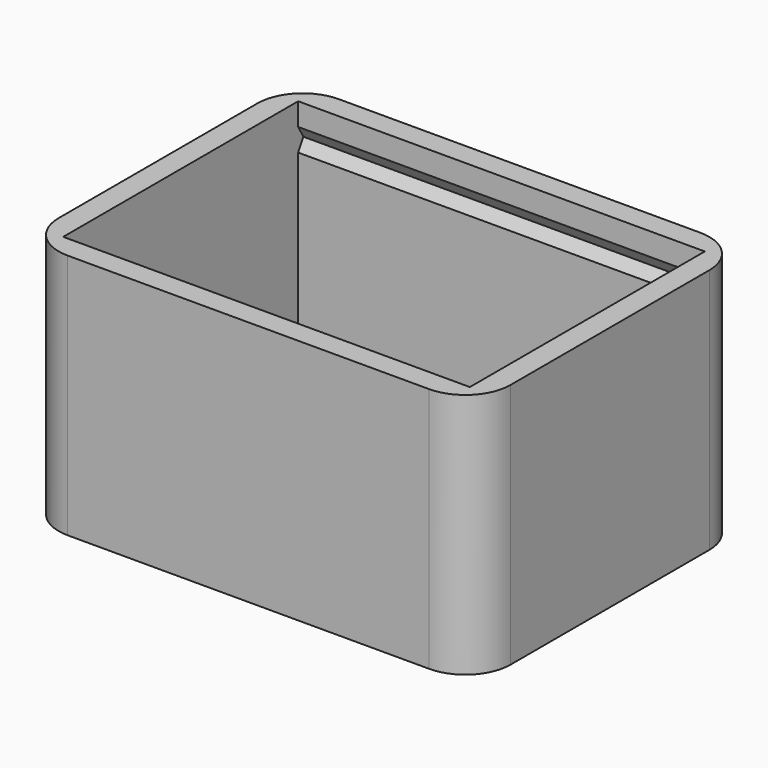
from build123d import *

# Parameters (mm, degrees)
F0_W          = 50.8
F0_H          = 38.1
F1_DEPTH      = 2.286
F2_W          = 50.8
F2_H          = 38.1
F2_W_2        = 45.72
F2_H_2        = 33.02
F3_DEPTH      = 25.4
F6_DEPTH      = 12.7
F6_DEPTH_BACK = 33.02
F8_D          = 3.3
F10_D         = 6.7564
F10_DEPTH     = 38.1
F10_TIP       = 2.0298273432
F11_R         = 5.08


with BuildPart() as f1:
    # F0 (on Top) → F1 (new body)
    with BuildSketch(Plane.XY):
        with Locations((25.4, 19.05)):
            Rectangle(F0_W, F0_H)
    extrude(amount=F1_DEPTH)

    # F2 (on face) → F3 (join)
    with BuildSketch(Plane.XY.offset(2.286)):
        with Locations((25.4, 19.05)):
            Rectangle(F2_W, F2_H)
        with Locations((25.4, 19.05)):
            Rectangle(F2_W_2, F2_H_2, mode=Mode.SUBTRACT)
    extrude(amount=F3_DEPTH)

    # F5 (on offset) → F6 (cut, two sides)
    with BuildSketch(Plane.YZ.offset(15.24)) as f6_sk:
        Polygon((2.54, 22.606), (2.54, 25.146), (1.8067651581, 23.876), align=None)
        Polygon((36.2932348419, 23.876), (35.56, 25.146), (35.56, 22.606), align=None)
    extrude(amount=-F6_DEPTH, mode=Mode.SUBTRACT)
    extrude(f6_sk.sketch, amount=F6_DEPTH_BACK, mode=Mode.SUBTRACT)

    # F8 (through all)
    with Locations(Plane.XY.offset(2.286)):
        with Locations((25.4, 19.05)):
            Hole(F8_D / 2)

    # F10
    with Locations(Plane(origin=(0, 0, 0), x_dir=(0, -1, 0), z_dir=(-1, 0, 0))):
        with Locations((-19.05, 9.525)):
            Hole(F10_D / 2, depth=F10_DEPTH)
            with Locations((0, 0, -(F10_DEPTH + F10_TIP / 2))):  # 118° drill point
                Cone(0, F10_D / 2, F10_TIP, mode=Mode.SUBTRACT)

    # F11
    f11_edges = [f1.edges().sort_by_distance(p)[0] for p in [
        (0, 0, 13.843),
        (50.8, 0, 13.843),
        (50.8, 38.1, 13.843),
        (0, 38.1, 13.843),
    ]]
    fillet(f11_edges, radius=F11_R)


solid = f1.part
